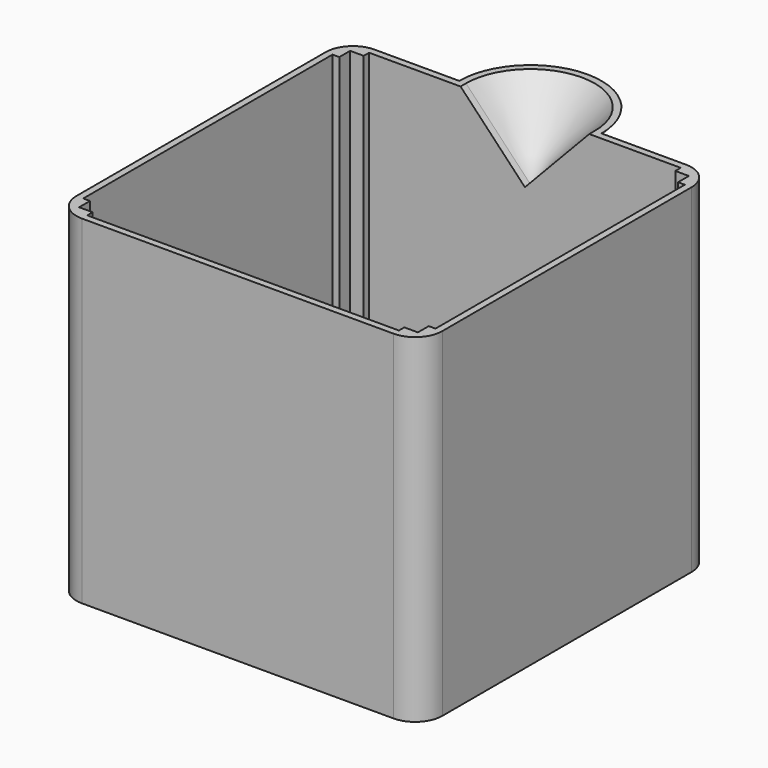
from build123d import *

# Parameters (mm, degrees)
SKETCH095_W         = 108
SKETCH095_H         = 108
PAD041_DEPTH        = 100
SKETCH096_W         = 100
SKETCH096_H         = 100
POCKET036_DEPTH     = 98
FILLET002_R         = 8
SKETCH097_W         = 2
SKETCH097_H         = 92
SKETCH097_W_2       = 92
SKETCH097_H_2       = 2
POCKET037_DEPTH     = 98
REVOLUTION012_ANGLE = 180
POCKET038_DEPTH     = 2


with BuildPart() as part:
    # Sketch095 → Pad041 (new body)
    with BuildSketch(Plane.XY):
        with Locations((54, 54)):
            Rectangle(SKETCH095_W, SKETCH095_H)
    extrude(amount=PAD041_DEPTH)

    # Sketch096 (on Face6 of Pad041) → Pocket036 (cut)
    with BuildSketch(Plane.XY.offset(100)):
        with Locations((54, 54)):
            Rectangle(SKETCH096_W, SKETCH096_H)
    extrude(amount=-POCKET036_DEPTH, mode=Mode.SUBTRACT)

    # Fillet002
    fillet002_edges = [part.edges().sort_by_distance(p)[0] for p in [
        (108, 0, 50),
        (0, 0, 50),
        (0, 108, 50),
        (108, 108, 50),
    ]]
    fillet(fillet002_edges, radius=FILLET002_R)

    # Sketch097 (on Face5 of Fillet002) → Pocket037 (cut)
    with BuildSketch(Plane.XY.offset(100)):
        with Locations((3, 54)):
            Rectangle(SKETCH097_W, SKETCH097_H)
        with Locations((54, 3)):
            Rectangle(SKETCH097_W_2, SKETCH097_H_2)
        with Locations((105, 54)):
            Rectangle(SKETCH097_W, SKETCH097_H)
        with Locations((54, 105)):
            Rectangle(SKETCH097_W_2, SKETCH097_H_2)
    extrude(amount=-POCKET037_DEPTH, mode=Mode.SUBTRACT)

    # Sketch105 (on Face10 of Pocket037) → Revolution012 (revolve)
    with BuildSketch(Plane(origin=(0, 108, 0), x_dir=(-1, 0, 0), z_dir=(0, 1, 0))):
        Polygon((-75, 100), (-73, 100), (-54, 80), (-56, 80), align=None)
    revolve(axis=Axis((54, 108, 80), (0, 0, 1)), revolution_arc=REVOLUTION012_ANGLE)

    # Sketch106 (on Face12 of Revolution012) → Pocket038 (cut)
    with BuildSketch(Plane(origin=(0, 108, 0), x_dir=(-1, 0, 0), z_dir=(0, 1, 0))):
        Polygon((-73, 100), (-54, 80), (-35, 100), align=None)
    extrude(amount=-POCKET038_DEPTH, mode=Mode.SUBTRACT)


solid = part.part
